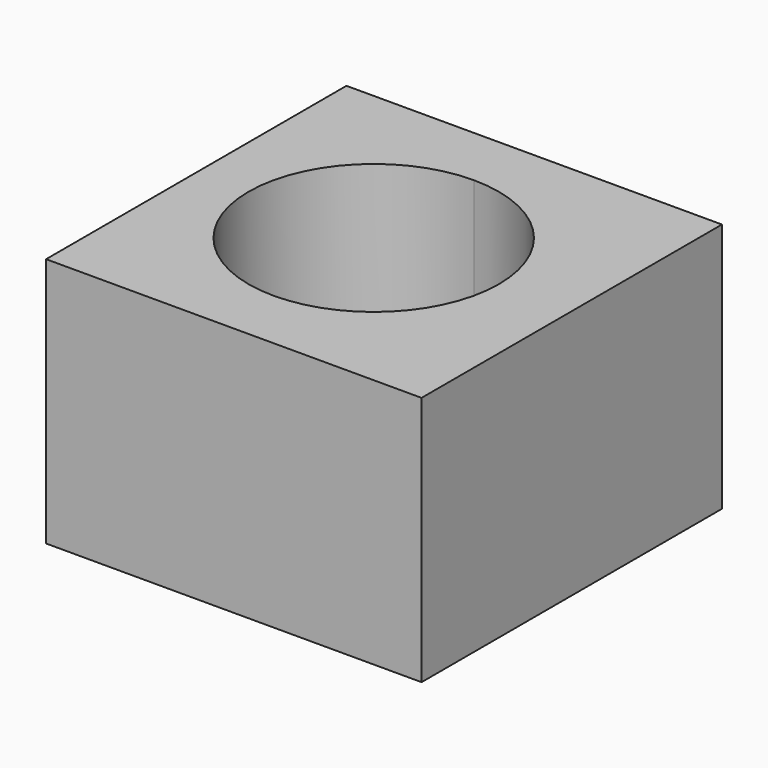
from build123d import *

# Parameters (mm, degrees)
F0_W     = 38.1
F0_H     = 38.1
F1_DEPTH = 25.4
F3_DEPTH = 25.401


with BuildPart() as f1:
    # F0 (on Top) → F1 (new body)
    with BuildSketch(Plane.XY):
        with Locations((19.05, 19.05)):
            Rectangle(F0_W, F0_H)
    extrude(amount=F1_DEPTH)

    # F2 (on face) → F3 (cut, through all)
    with BuildSketch(Plane.XY.offset(25.4)):
        with BuildLine():
            ThreePointArc((17.996637, 31.761152), (9.016381, 10.080896), (30.696637, 19.061152))
            ThreePointArc((30.696637, 19.061152), (26.976893, 28.041408), (17.996637, 31.761152))
        make_face()
    extrude(amount=-F3_DEPTH, mode=Mode.SUBTRACT)


solid = f1.part
